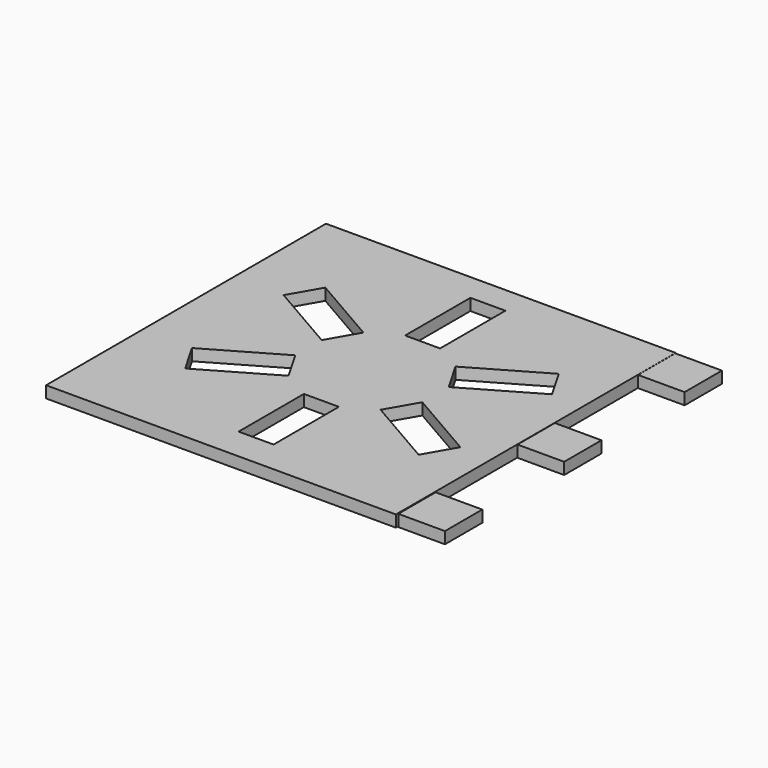
from build123d import *

# Parameters (mm, degrees)
F0_W     = 20
F0_H     = 20
F1_DEPTH = 5
F2_W     = 15
F2_H     = 35
F3_DEPTH = 62


with BuildPart() as f1:
    # F0 (on Top) → F1 (new body)
    with BuildSketch(Plane.XY):
        Polygon((71.329683, 117.875477), (-78.670317, 117.875477), (-78.670317, -32.124523), (71.329683, -32.124523), (71.329683, 52.875477), align=None)
        with Locations((81.680194, -21.283627)):
            Rectangle(F0_W, F0_H)
        with Locations((81.465252, 42.875477)):
            Rectangle(F0_W, F0_H)
        with Locations((81.390066, 107.521837)):
            Rectangle(F0_W, F0_H)
    extrude(amount=F1_DEPTH)

    # F2 (on face) → F3 (cut)
    with BuildSketch(Plane.XY.offset(5)):
        with Locations((0.172052, -0.621775)):
            Rectangle(F2_W, F2_H)
        Polygon((27.410198, 36.934303), (19.910198, 23.943922), (50.221087, 6.443922), (57.721087, 19.434303), align=None)
        Polygon((19.910198, 64.056078), (27.410198, 51.065697), (57.721087, 68.565697), (50.221087, 81.556078), align=None)
        with Locations((0.172052, 88.621775)):
            Rectangle(F2_W, F2_H)
        Polygon((-27.066095, 51.065697), (-19.566095, 64.056078), (-49.876984, 81.556078), (-57.376984, 68.565697), align=None)
        Polygon((-19.566095, 23.943922), (-27.066095, 36.934303), (-57.376984, 19.434303), (-49.876984, 6.443922), align=None)
    extrude(amount=-F3_DEPTH, mode=Mode.SUBTRACT)


solid = f1.part
